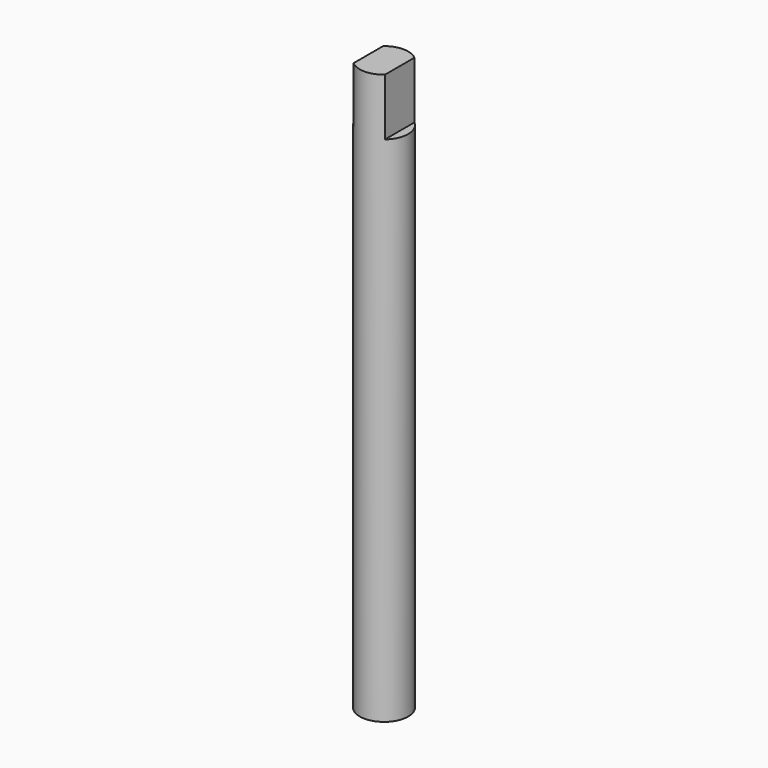
from build123d import *

# Parameters (mm, degrees)
F0_R     = 2.159
F1_DEPTH = 50.8
F3_DEPTH = 5.08


with BuildPart() as f1:
    # F0 (on Top) → F1 (new body)
    with BuildSketch(Plane.XY):
        Circle(F0_R)
    extrude(amount=F1_DEPTH)

    # F2 (on face) → F3 (cut)
    with BuildSketch(Plane.XY.offset(50.8)):
        with BuildLine():
            ThreePointArc((2.159, 0), (1.9592605748, 0.9069614104), (1.397, 1.6461081374))
            Line((1.397, 1.6461081374), (1.397, -1.6461081374))
            ThreePointArc((1.397, -1.6461081374), (1.9592605748, -0.9069614104), (2.159, 0))
        make_face()
        with BuildLine():
            Line((-1.397, -1.6461081374), (-1.397, 1.6461081374))
            ThreePointArc((-1.397, 1.6461081374), (-2.159, 0), (-1.397, -1.6461081374))
        make_face()
    extrude(amount=-F3_DEPTH, mode=Mode.SUBTRACT)


solid = f1.part
